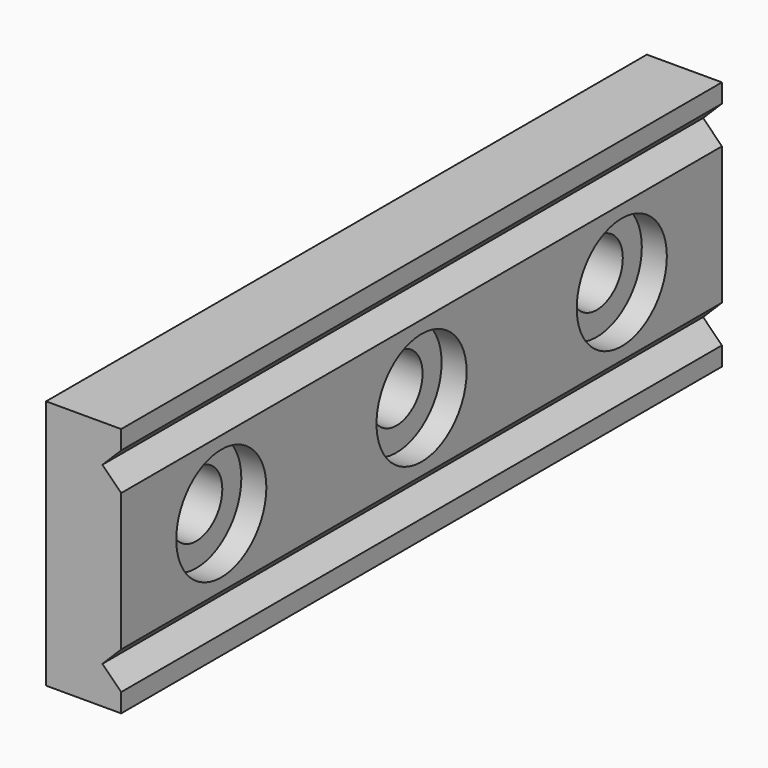
from build123d import *

# Parameters (mm, degrees)
F0_W     = 60
F0_H     = 20
F0_R     = 2.6
F1_DEPTH = 6
F2_R     = 4.5
F3_DEPTH = 2
F5_DEPTH = 60.001


with BuildPart() as f1:
    # F0 (on Right) → F1 (new body)
    with BuildSketch(Plane.YZ):
        Rectangle(F0_W, F0_H)
        with Locations((-20, 0)):
            Circle(F0_R, mode=Mode.SUBTRACT)
        Circle(F0_R, mode=Mode.SUBTRACT)
        with Locations((20, 0)):
            Circle(F0_R, mode=Mode.SUBTRACT)
    extrude(amount=F1_DEPTH)

    # F2 (on face) → F3 (cut)
    with BuildSketch(Plane.YZ.offset(6)):
        with Locations((-20, 0)):
            Circle(F2_R)
        Circle(F2_R)
        with Locations((20, 0)):
            Circle(F2_R)
    extrude(amount=-F3_DEPTH, mode=Mode.SUBTRACT)

    # F4 (on face) → F5 (cut, through all)
    with BuildSketch(Plane.XZ.offset(30)):
        Polygon((6, 8.5), (4.5, 7), (6, 5.5), align=None)
        Polygon((6, -8.5), (6, -5.5), (4.5, -7), align=None)
    extrude(amount=-F5_DEPTH, mode=Mode.SUBTRACT)


solid = f1.part
